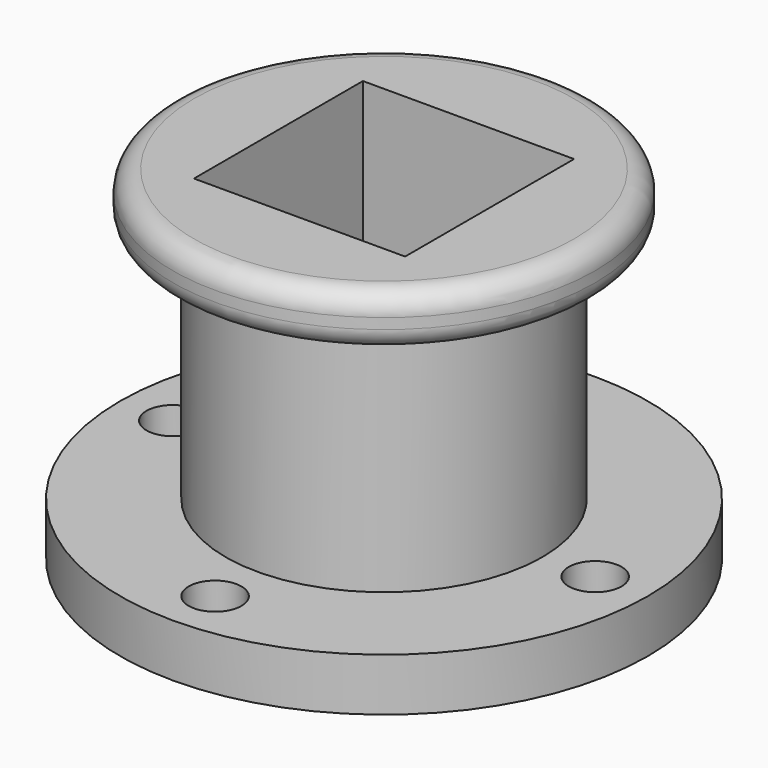
from build123d import *

# Parameters (mm, degrees)
F0_R     = 50.8
F1_DEPTH = 12.7
F2_R     = 38.1
F3_DEPTH = 57.15
F4_R     = 63.5
F5_DEPTH = 12.7
F6_W     = 50.8
F6_H     = 50.8
F7_DEPTH = 112.776
F8_R     = 6.35
F9_DEPTH = 25.4
F10_R    = 5.08


with BuildPart() as f1:
    # F0 (on Top) → F1 (new body)
    with BuildSketch(Plane.XY):
        Circle(F0_R)
    extrude(amount=F1_DEPTH)

    # F2 (on face) → F3 (join)
    with BuildSketch(Plane.XY):
        Circle(F2_R)
    extrude(amount=-F3_DEPTH)

    # F4 (on face) → F5 (join)
    with BuildSketch(Plane(origin=(0, 0, -57.15), x_dir=(1, 0, 0), z_dir=(0, 0, -1))):
        Circle(F4_R)
    extrude(amount=F5_DEPTH)

    # F6 (on face) → F7 (cut)
    with BuildSketch(Plane.XY.offset(12.7)):
        Rectangle(F6_W, F6_H)
    extrude(amount=-F7_DEPTH, mode=Mode.SUBTRACT)

    # F8 (on face) → F9 (cut)
    with BuildSketch(Plane.XY.offset(-57.15)):
        with Locations((0, -50.8)):
            Circle(F8_R)
        with Locations((50.8, 0)):
            Circle(F8_R)
        with Locations((0, 50.8)):
            Circle(F8_R)
        with Locations((-50.8, 0)):
            Circle(F8_R)
    extrude(amount=-F9_DEPTH, mode=Mode.SUBTRACT)

    # F10
    f10_edges = [f1.edges().sort_by_distance(p)[0] for p in [
        (50.8, 0, 6.35),
        (-50.8, 0, 0),
        (-50.8, 0, 12.7),
    ]]
    fillet(f10_edges, radius=F10_R)


solid = f1.part
